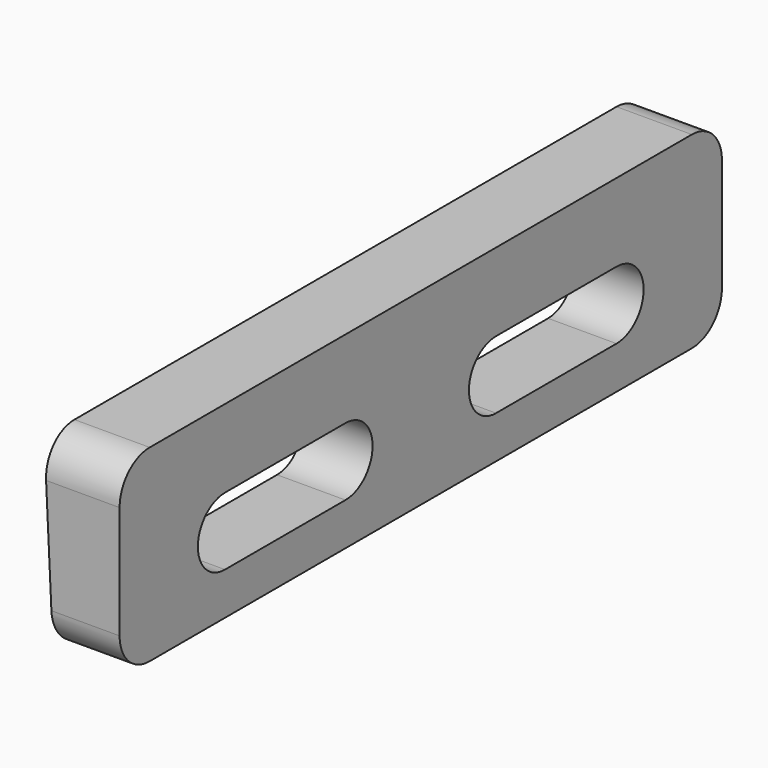
from build123d import *

# Parameters (mm, degrees)
F1_DEPTH = 200
F3_DEPTH = 20.001
F4_R     = 10


with BuildPart() as f1:
    # F0 (on Front) → F1 (new body)
    with BuildSketch(Plane.XZ):
        Polygon((6.850831, -20.271453), (6.850831, 29.728547), (-13.149169, 29.728547), (-10.791229, -20.271453), align=None)
    extrude(amount=F1_DEPTH)

    # F2 (on face) → F3 (cut, through all)
    with BuildSketch(Plane.YZ.offset(6.850831)):
        with BuildLine():
            Line((-125, 9), (-165, 9))
            ThreePointArc((-165, 9), (-174, 0), (-165, -9))
            Line((-165, -9), (-125, -9))
            ThreePointArc((-125, -9), (-116, 0), (-125, 9))
        make_face()
        with BuildLine():
            Line((-35, 9), (-75, 9))
            ThreePointArc((-75, 9), (-84, 0), (-75, -9))
            Line((-75, -9), (-35, -9))
            ThreePointArc((-35, -9), (-26, 0), (-35, 9))
        make_face()
    extrude(amount=-F3_DEPTH, mode=Mode.SUBTRACT)

    # F4
    f4_edges = [f1.edges().sort_by_distance(p)[0] for p in [
        (-3.149169, -200, 29.728547),
        (-1.970199, -200, -20.271453),
        (-1.970199, 0, -20.271453),
        (-3.149169, 0, 29.728547),
    ]]
    fillet(f4_edges, radius=F4_R)


solid = f1.part
